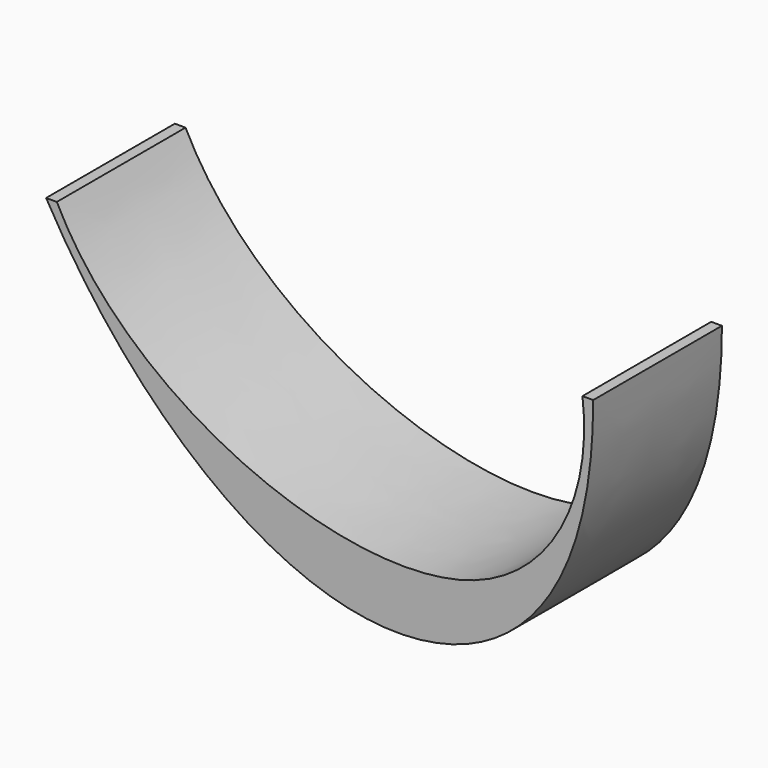
from build123d import *

# Parameters (mm, degrees)
F1_DEPTH = 381


with BuildPart() as f1:
    # F0 (on Front) → F1 (new body)
    with BuildSketch(Plane.XZ):
        with BuildLine():
            Line((-774.7, 0), (-800.1, 0))
            add(Edge.make_bspline(
                [(-800.1, 0), (-599.2066897164, -355.6), (-288.6553132125, -615.3947553769), (0, -634.5125835957)],
                knots=[0, 0, 0, 0, 0.5297057398, 0.5297057398, 0.5297057398, 0.5297057398], degree=3))
            add(Edge.make_bspline(
                [(0, -634.5125835957), (256.2799055558, -651.4861676111), (495.3, -478.7435343147), (495.3, 0)],
                knots=[0.5297057398, 0.5297057398, 0.5297057398, 0.5297057398, 1, 1, 1, 1], degree=3))
            Line((495.3, 0), (469.9, 0))
            add(Edge.make_bspline(
                [(-774.7, 0), (-599.2066897164, -355.6), (268.4296243676, -703.6426504208), (495.3, -204.1189819574), (469.9, 0)],
                knots=[0, 0, 0, 0, 0.5842871854, 1, 1, 1, 1], degree=3))
        make_face()
    extrude(amount=F1_DEPTH)


solid = f1.part
